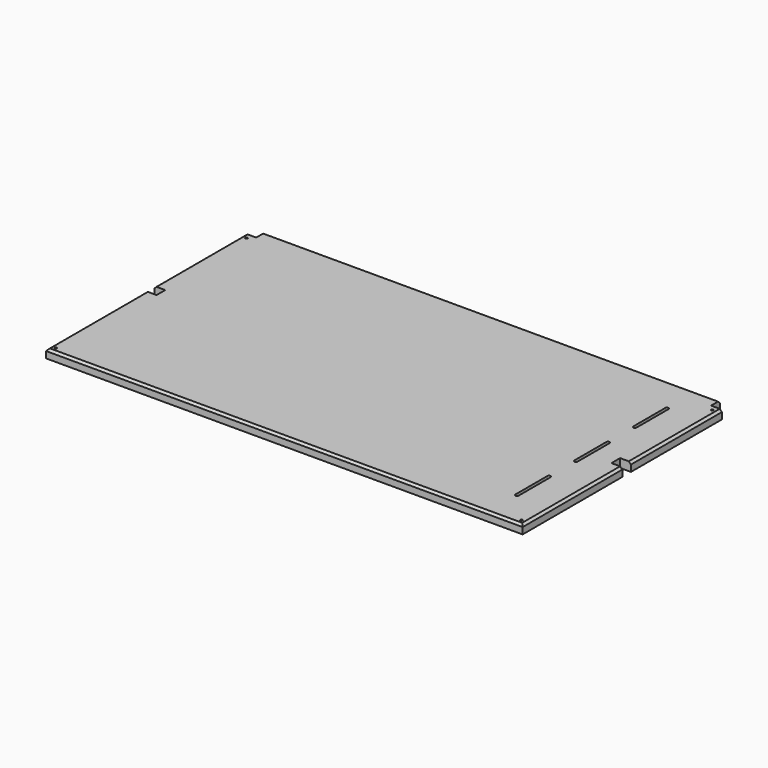
from build123d import *

# Parameters (mm, degrees)
F0_W     = 1100
F0_H     = 600
F1_DEPTH = 20
F2_W     = 50
F2_H     = 25
F2_W_2   = 25
F3_DEPTH = 20.001
F5_D     = 5
F6_SIZE  = 5


with BuildPart() as f1:
    # F0 (on Top) → F1 (new body)
    with BuildSketch(Plane.XY):
        Rectangle(F0_W, F0_H)
    extrude(amount=F1_DEPTH)

    # F2 (on face) → F3 (cut, through all)
    with BuildSketch(Plane.XY.offset(20)):
        with BuildLine():
            Line((473.75, -216.25), (473.75, -123.75))
            ThreePointArc((473.75, -123.75), (472.65165, -121.09835), (470, -120))
            ThreePointArc((470, -120), (467.34835, -121.09835), (466.25, -123.75))
            Line((466.25, -123.75), (466.25, -216.25))
            ThreePointArc((466.25, -216.25), (467.34835, -218.90165), (470, -220))
            ThreePointArc((470, -220), (472.65165, -218.90165), (473.75, -216.25))
        make_face()
        with BuildLine():
            Line((473.75, -46.25), (473.75, 46.25))
            ThreePointArc((473.75, 46.25), (472.65165, 48.90165), (470, 50))
            ThreePointArc((470, 50), (467.34835, 48.90165), (466.25, 46.25))
            Line((466.25, 46.25), (466.25, -46.25))
            ThreePointArc((466.25, -46.25), (467.34835, -48.90165), (470, -50))
            ThreePointArc((470, -50), (472.65165, -48.90165), (473.75, -46.25))
        make_face()
        with BuildLine():
            Line((466.25, 216.25), (466.25, 123.75))
            ThreePointArc((466.25, 123.75), (467.34835, 121.09835), (470, 120))
            ThreePointArc((470, 120), (472.65165, 121.09835), (473.75, 123.75))
            Line((473.75, 123.75), (473.75, 216.25))
            ThreePointArc((473.75, 216.25), (472.65165, 218.90165), (470, 220))
            ThreePointArc((470, 220), (467.34835, 218.90165), (466.25, 216.25))
        make_face()
        with Locations((-550, 0)):
            Rectangle(F2_W, F2_H)
        with Locations((550, 0)):
            Rectangle(F2_W, F2_H)
        with Locations((-537.5, 287.5)):
            Rectangle(F2_W_2, F2_H)
        with Locations((537.5, 287.5)):
            Rectangle(F2_W_2, F2_H)
    extrude(amount=-F3_DEPTH, mode=Mode.SUBTRACT)

    # F5 (through all)
    with Locations(Plane.XY.offset(20)):
        with Locations((537.5, -287.5), (-537.5, -287.5), (537.5, 262.5), (-537.5, 262.5)):
            Hole(F5_D / 2)

    # F6
    f6_edges = [f1.edges().sort_by_distance(p)[0] for p in [
        (0, -300, 20),
        (-550, -156.25, 20),
        (-550, 143.75, 20),
        (0, 300, 20),
        (550, -156.25, 20),
        (550, 143.75, 20),
    ]]
    chamfer(f6_edges, length=F6_SIZE)


solid = f1.part
